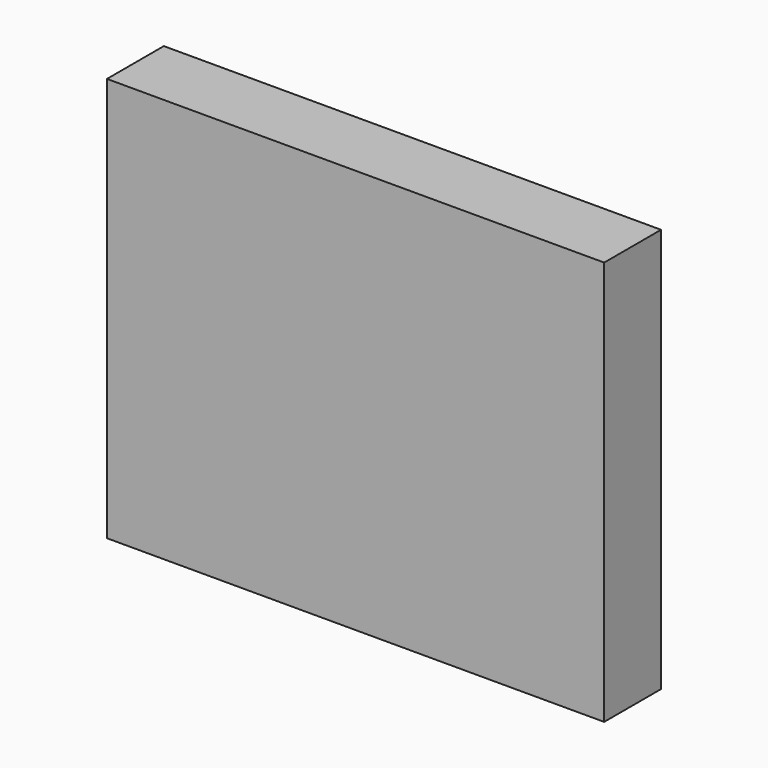
from build123d import *

# Parameters (mm, degrees)
F0_W     = 177.718074
F0_H     = 144.534186
F1_DEPTH = 25.4
F3_R     = 3.175
F4_DEPTH = 12.7
F5_R     = 6.35
F6_DEPTH = 12.7


with BuildPart() as f1:
    # F0 (on Front) → F1 (new body)
    with BuildSketch(Plane.XZ):
        Rectangle(F0_W, F0_H)
    extrude(amount=F1_DEPTH)

    # F3 (on face) → F4 (join)
    with BuildSketch(Plane(origin=(0, 0, 0), x_dir=(-1, 0, 0), z_dir=(0, 1, 0))):
        Circle(F3_R)
    extrude(amount=F4_DEPTH)

    # F5 (on face) → F6 (join)
    with BuildSketch(Plane(origin=(0, 0, 0), x_dir=(-1, 0, 0), z_dir=(0, 1, 0))):
        with Locations((-28.575, 0)):
            Circle(F5_R)
        with Locations((0, 28.575)):
            Circle(F5_R)
        with Locations((28.575, 0)):
            Circle(F5_R)
        with Locations((0, -28.575)):
            Circle(F5_R)
    extrude(amount=F6_DEPTH)


solid = f1.part
